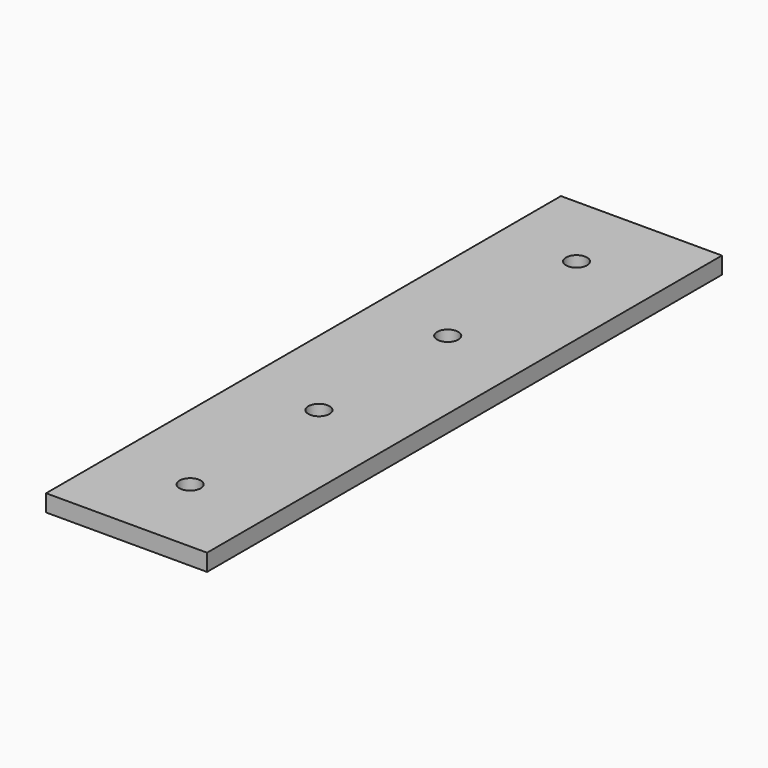
from build123d import *

# Parameters (mm, degrees)
F1_W     = 15.2
F1_H     = 60.76299
F2_DEPTH = 1.6
F0_R     = 1
F3_DEPTH = 25


with BuildPart() as f2:
    # F1 (on Top) → F2 (new body)
    with BuildSketch(Plane.XY):
        with Locations((0.184545, 7.447379)):
            Rectangle(F1_W, F1_H)
    extrude(amount=-F2_DEPTH)

    # F0 (on Top) → F3 (cut)
    with BuildSketch(Plane.XY):
        Circle(F0_R)
        with Locations((0, 15.2)):
            Circle(F0_R)
        with Locations((0, 30.4)):
            Circle(F0_R)
        with Locations((0, -15.2)):
            Circle(F0_R)
    extrude(amount=-F3_DEPTH, mode=Mode.SUBTRACT)


solid = f2.part
